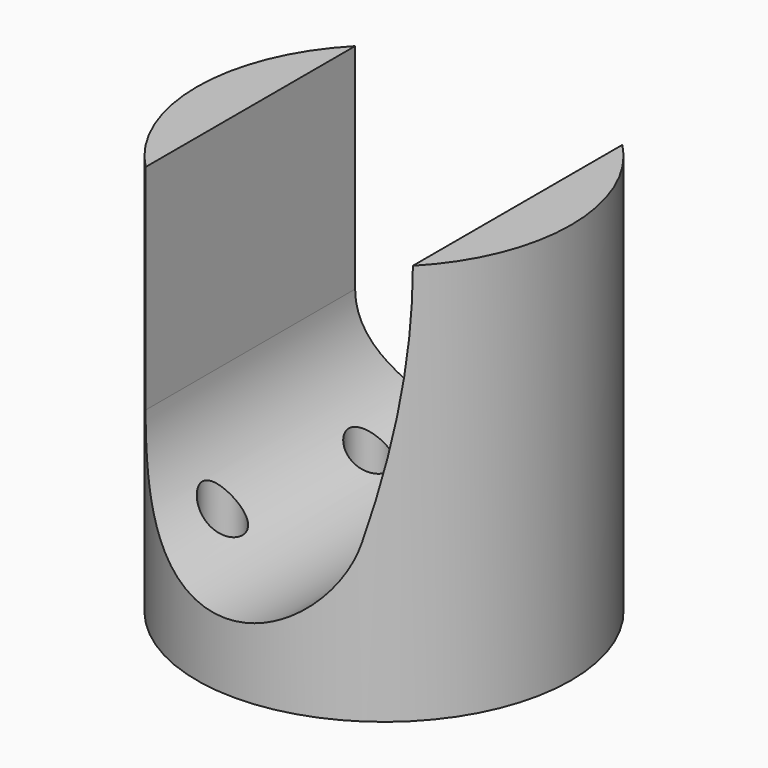
from build123d import *

# Parameters (mm, degrees)
F0_R          = 14
F0_R_2        = 1.5
F1_DEPTH      = 30
F3_DEPTH      = 25
F3_DEPTH_BACK = 25


with BuildPart() as f1:
    # F0 (on Top) → F1 (new body)
    with BuildSketch(Plane.XY):
        Circle(F0_R)
        with Locations((-6.7175144213, -6.7175144213)):
            Circle(F0_R_2, mode=Mode.SUBTRACT)
        with Locations((5.6568542495, -5.6568542495)):
            Circle(F0_R_2, mode=Mode.SUBTRACT)
        with Locations((-5.6568542495, 5.6568542495)):
            Circle(F0_R_2, mode=Mode.SUBTRACT)
        with Locations((6.7175144213, 6.7175144213)):
            Circle(F0_R_2, mode=Mode.SUBTRACT)
    extrude(amount=F1_DEPTH)

    # F2 (on Front) → F3 (cut, two sides)
    with BuildSketch(Plane.XZ) as f3_sk:
        with BuildLine():
            Line((10, 30), (-10, 30))
            Line((-10, 30), (-10, 13.9895361748))
            ThreePointArc((-10, 13.9895361748), (-2.136238911, 5.0707699432), (7.6971068467, 11.7557112868))
            ThreePointArc((7.6971068467, 11.7557112868), (9.4220015712, 20.8054719055), (10, 30))
        make_face()
    extrude(amount=-F3_DEPTH, mode=Mode.SUBTRACT)
    extrude(f3_sk.sketch, amount=F3_DEPTH_BACK, mode=Mode.SUBTRACT)


solid = f1.part
